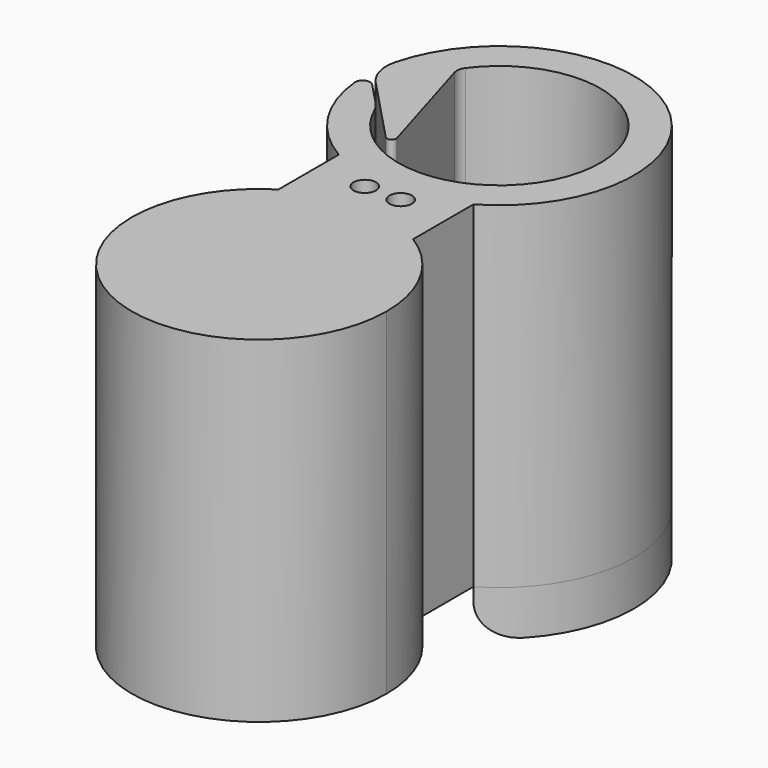
from build123d import *

# Parameters (mm, degrees)
PAD_DEPTH     = 75
SKETCH001_R   = 24.4
SKETCH001_R_2 = 2.5
PAD001_DEPTH  = 75
SKETCH003_R   = 24.4
PAD002_DEPTH  = 5
SKETCH004_R   = 25.4
POCKET_DEPTH  = 3
PAD003_DEPTH  = 10
FILLET_R      = 7


with BuildPart() as part:
    # Sketch → Pad (new body)
    with BuildSketch(Plane.XY):
        with BuildLine():
            ThreePointArc((-29.848016, -3.015947), (29.920505, -2.182515), (-29.094406, 7.315431))
            ThreePointArc((-29.094406, 7.315431), (-29.072912, 3.034578), (-26.991574, -0.706304))
            Line((-26.991574, -0.706304), (-12.739759, -15.728805))
            ThreePointArc((-12.739759, -15.728805), (-11.4789, -15.911046), (-11.008743, -14.727014))
            Line((-11.008743, -14.727014), (-18.604437, 10.709188))
            ThreePointArc((-18.160969, 13.282665), (-18.684551, 12.047942), (-18.604437, 10.709188))
            ThreePointArc((-20.499669, -9.27435), (22.380035, -2.320351), (-18.160969, 13.282665))
            ThreePointArc((-20.499669, -9.27435), (-21.232479, -7.959372), (-22.173804, -6.784601))
            Line((-22.173804, -6.784601), (-26.991574, -1.706304))
            ThreePointArc((-26.991574, -1.706304), (-28.888073, -1.339771), (-29.848016, -3.015947))
        make_face()
    extrude(amount=PAD_DEPTH)

    # Sketch001 (on DatumPlane) → Pad001 (join)
    with BuildSketch(Plane.XY.offset(75)):
        with BuildLine():
            ThreePointArc((-28.4, -66.9), (0, -95.3), (28.4, -66.9))
            ThreePointArc((28.4, -66.9), (24.824987, -53.105798), (15, -42.784445))
            Line((15, -16.77051), (15, -42.784445))
            ThreePointArc((-15, -16.77051), (0, -22.5), (15, -16.77051))
            Line((-15, -16.77051), (-15, -42.784445))
            ThreePointArc((-15, -42.784445), (-24.824987, -53.105798), (-28.4, -66.9))
        make_face()
        with Locations((0, -66.9)):
            Circle(SKETCH001_R, mode=Mode.SUBTRACT)
        with Locations((-4, -32.5)):
            Circle(SKETCH001_R_2, mode=Mode.SUBTRACT)
        with Locations((4, -32.5)):
            Circle(SKETCH001_R_2, mode=Mode.SUBTRACT)
    extrude(amount=-PAD001_DEPTH)

    # Sketch003 (on DatumPlane) → Pad002 (join)
    with BuildSketch(Plane.XY.offset(75)):
        with Locations((0, -66.9)):
            Circle(SKETCH003_R)
    extrude(amount=-PAD002_DEPTH)

    # Sketch004 (on DatumPlane) → Pocket (cut)
    with BuildSketch(Plane(origin=(0, 0, 0), x_dir=(1, 0, 0), z_dir=(0, 0, -1))):
        with Locations((0, 66.9)):
            Circle(SKETCH004_R)
    extrude(amount=-POCKET_DEPTH, mode=Mode.SUBTRACT)

    # Sketch005 (on DatumPlane) → Pad003 (join)
    with BuildSketch(Plane(origin=(0, 0, 0), x_dir=(1, 0, 0), z_dir=(0, 0, -1))):
        with BuildLine():
            Line((-28.023442, -10.709188), (-18.160969, -13.282665))
            ThreePointArc((-18.160969, -13.282665), (15.109476, -16.671944), (15, 16.77051))
            Line((15, 16.77051), (15, 25.980762))
            ThreePointArc((-28.023442, -10.709188), (19.466397, -22.826725), (15, 25.980762))
        make_face()
    extrude(amount=PAD003_DEPTH)

    # Fillet
    fillet_edges = [part.edges().sort_by_distance(p)[0] for p in [
        (15.109476, 16.671944, -10),
        (-23.092205, 11.995927, -10),
        (15, -21.375636, -10),
    ]]
    fillet(fillet_edges, radius=FILLET_R)


solid = part.part
